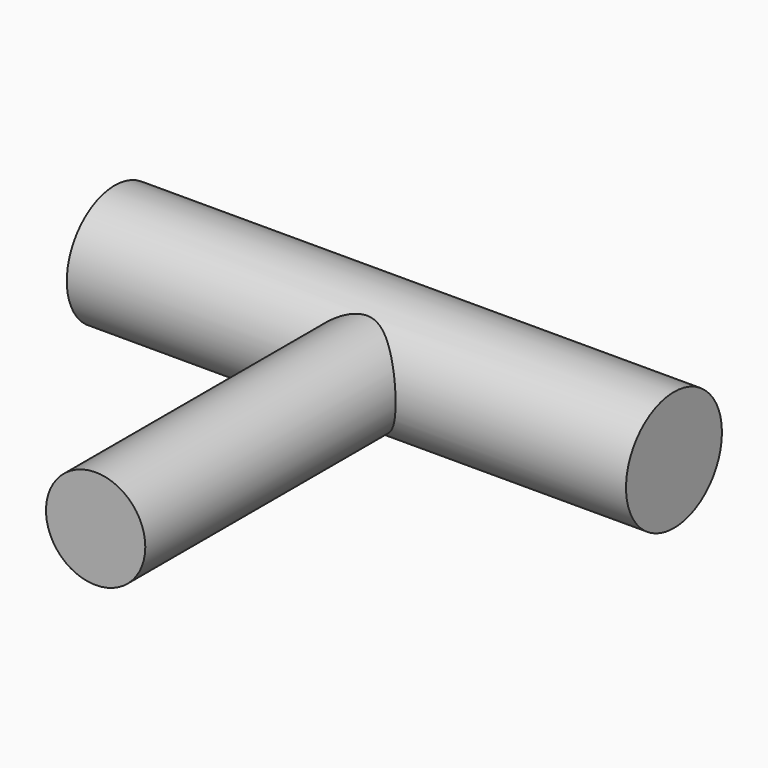
from build123d import *

# Parameters (mm, degrees)
F0_R     = 16.33388
F1_DEPTH = 152.4
F2_R     = 13.533454
F3_DEPTH = 101.6


with BuildPart() as f1:
    # F0 (on Right) → F1 (new body)
    with BuildSketch(Plane.YZ):
        Circle(F0_R)
    extrude(amount=F1_DEPTH)

    # F2 (on Front) → F3 (join)
    with BuildSketch(Plane.XZ):
        with Locations((76.077096, 0)):
            Circle(F2_R)
    extrude(amount=F3_DEPTH)


solid = f1.part
